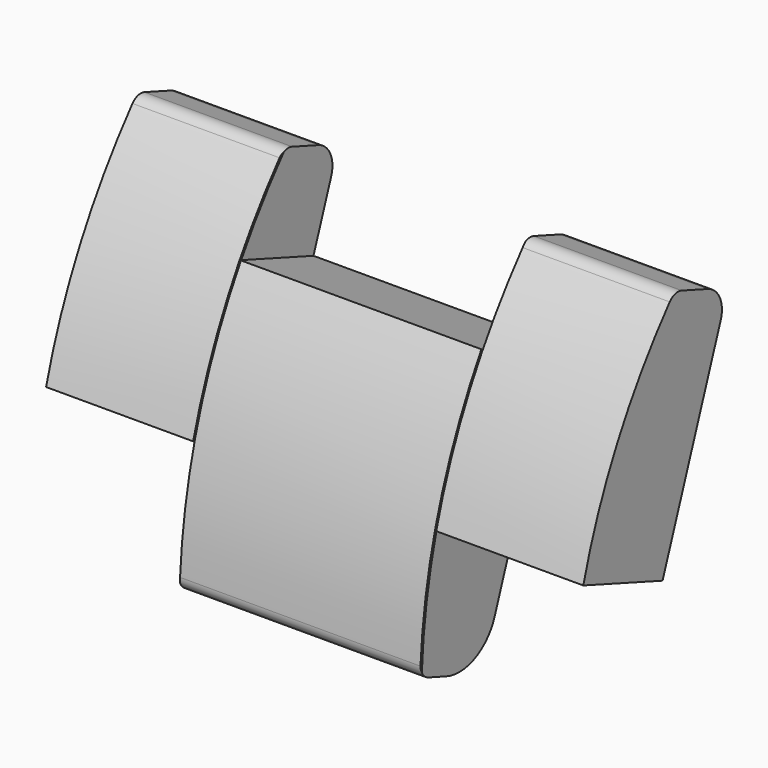
from build123d import *

# Parameters (mm, degrees)
PAD013_DEPTH    = 10
SKETCH065_W     = 4.5
SKETCH065_H     = 5.5
SKETCH065_W_2   = 3.4
SKETCH065_H_2   = 9
POCKET012_DEPTH = 7.2375310186


with BuildPart() as part:
    # Sketch064 → Pad013 (new body, symmetric)
    with BuildSketch(Plane.YZ):
        with BuildLine():
            ThreePointArc((-25.8475912574, 5.4708262373), (-29.159051684, -0.0593501339), (-30.5394960729, -6.355618405))
            ThreePointArc((-30.5394960729, -6.355618405), (-30.457390957, -6.658226438), (-30.2112344729, -6.8524424441))
            Line((-30.2112344729, -6.8524424441), (-29.3637121644, -7.1609153372))
            ThreePointArc((-29.3637121644, -7.1609153372), (-28.0255949556, -7.1024918781), (-27.1207148272, -6.1149885016))
            Line((-27.1207148272, -6.1149885016), (-23.4782003008, 3.8927379097))
            ThreePointArc((-23.4782003008, 3.8927379097), (-23.5115851346, 4.6573763148), (-24.0758727783, 5.1744506738))
            Line((-25.2946071344, 5.618033703), (-24.0758727783, 5.1744506738))
            ThreePointArc((-25.2946071344, 5.618033703), (-25.5942405308, 5.6313602812), (-25.8475912574, 5.4708262373))
        make_face()
    extrude(amount=PAD013_DEPTH, both=True)

    # Sketch065 (on Face6 of Pad013) → Pocket012 (cut, through all)
    with BuildSketch(Plane(origin=(0, -21.9828744359, 8.0011119583), x_dir=(0, 0.3420201433, 0.9396926208), z_dir=(0, 0.9396926208, -0.3420201433))):
        with Locations((-14.5220403435, 7.25)):
            Rectangle(SKETCH065_W, SKETCH065_H)
        with Locations((-14.5220403435, -7.25)):
            Rectangle(SKETCH065_W, SKETCH065_H)
        with Locations((-5.0720403435, 0)):
            Rectangle(SKETCH065_W_2, SKETCH065_H_2)
    extrude(amount=-POCKET012_DEPTH, mode=Mode.SUBTRACT)

    # SubtractivePipe003: sweep along a path in Sketch067
    with BuildLine(Plane.YZ.offset(4.5)) as subtractivepipe003_path:
        ThreePointArc((-25.6193920552, 5.7362457467), (-29.1630396012, -0.0694100418), (-30.5561005443, -6.7269214592))
    # Sketch066 (on DatumPlane) → SubtractivePipe003 (sweep, cut)
    with BuildSketch(Plane(origin=(4.5, -30.5394960729, -6.355618405), x_dir=(0, -0.9985433434, 0.0539554573), z_dir=(0, -0.0539554573, -0.9985433434))):
        Polygon((0, -0.025), (0, 0.025), (-0.0433012702, 0), align=None)
    subtractivepipe003 = sweep(path=subtractivepipe003_path.line, mode=Mode.SUBTRACT)

    # Mirrored003: SubtractivePipe003 across YZ
    add(subtractivepipe003.mirror(Plane.YZ), mode=Mode.SUBTRACT)


solid = part.part
